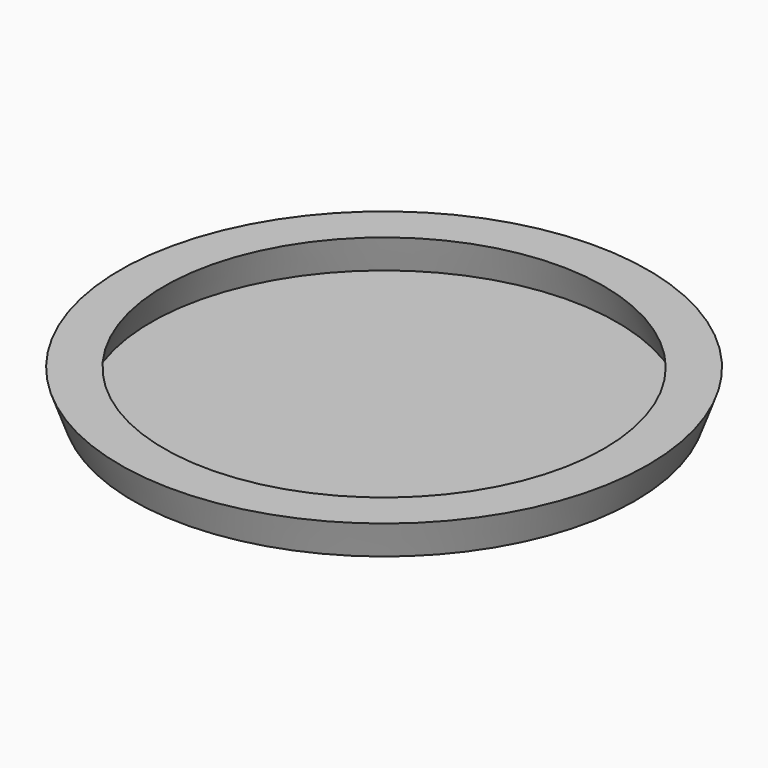
from build123d import *

# Parameters (mm, degrees)
F0_R     = 88.9
F0_R_2   = 82.55
F1_DEPTH = 12.7
F1_TAPER = -20
F2_R     = 82.55
F3_DEPTH = 0.254


with BuildPart() as f1:
    # F0 (on Top) → F1 (new body)
    with BuildSketch(Plane.XY):
        Circle(F0_R)
        Circle(F0_R_2, mode=Mode.SUBTRACT)
        Circle(F0_R)
        Circle(F0_R_2, mode=Mode.SUBTRACT)
    extrude(amount=F1_DEPTH, taper=F1_TAPER)


with BuildPart() as f3:
    # F2 (on face) → F3 (new body)
    with BuildSketch(Plane(origin=(0, 0, 0), x_dir=(1, 0, 0), z_dir=(0, 0, -1))):
        Circle(F2_R)
    extrude(amount=F3_DEPTH)


solid = Compound([f1.part, f3.part])
